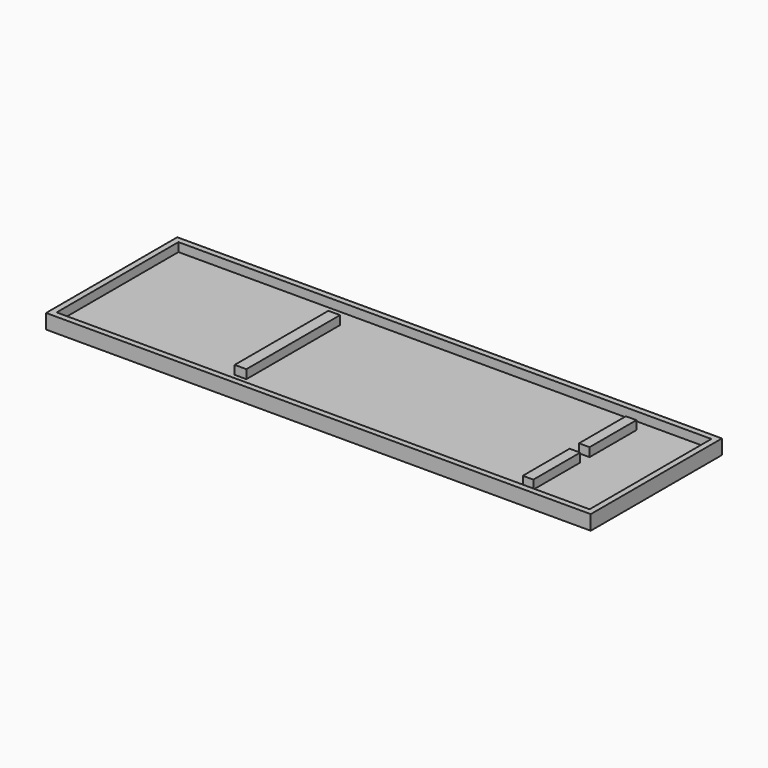
from build123d import *

# Parameters (mm, degrees)
F0_W     = 465
F0_H     = 140
F0_W_2   = 455
F0_H_2   = 130
F0_W_3   = 9
F0_H_3   = 50
F0_W_4   = 10
F0_H_4   = 100
F1_DEPTH = 5
F2_DEPTH = 12.5


with BuildPart() as f1:
    # F0 (on Top) → F1 (new body)
    with BuildSketch(Plane.XY):
        with Locations((26.0440334678, -43.2247466722)):
            Rectangle(F0_W, F0_H)
        with Locations((26.0440334678, -43.2247466722)):
            Rectangle(F0_W_2, F0_H_2, mode=Mode.SUBTRACT)
        with Locations((26.0440334678, -43.2247466722)):
            Rectangle(F0_W_2, F0_H_2)
        with Locations((193.0440334678, -73.2247466722)):
            Rectangle(F0_W_3, F0_H_3, mode=Mode.SUBTRACT)
        with Locations((-56.4559665322, -43.2247466722)):
            Rectangle(F0_W_4, F0_H_4, mode=Mode.SUBTRACT)
        with Locations((193.0440334678, -13.2247466722)):
            Rectangle(F0_W_3, F0_H_3, mode=Mode.SUBTRACT)
        with Locations((-56.4559665322, -43.2247466722)):
            Rectangle(F0_W_4, F0_H_4)
        with Locations((193.0440334678, -13.2247466722)):
            Rectangle(F0_W_3, F0_H_3)
        with Locations((193.0440334678, -73.2247466722)):
            Rectangle(F0_W_3, F0_H_3)
    extrude(amount=F1_DEPTH)

    # F0 (on Top) → F2 (join)
    with BuildSketch(Plane.XY):
        with Locations((26.0440334678, -43.2247466722)):
            Rectangle(F0_W, F0_H)
        with Locations((26.0440334678, -43.2247466722)):
            Rectangle(F0_W_2, F0_H_2, mode=Mode.SUBTRACT)
        with Locations((-56.4559665322, -43.2247466722)):
            Rectangle(F0_W_4, F0_H_4)
        with Locations((193.0440334678, -13.2247466722)):
            Rectangle(F0_W_3, F0_H_3)
        with Locations((193.0440334678, -73.2247466722)):
            Rectangle(F0_W_3, F0_H_3)
    extrude(amount=F2_DEPTH)


solid = f1.part
